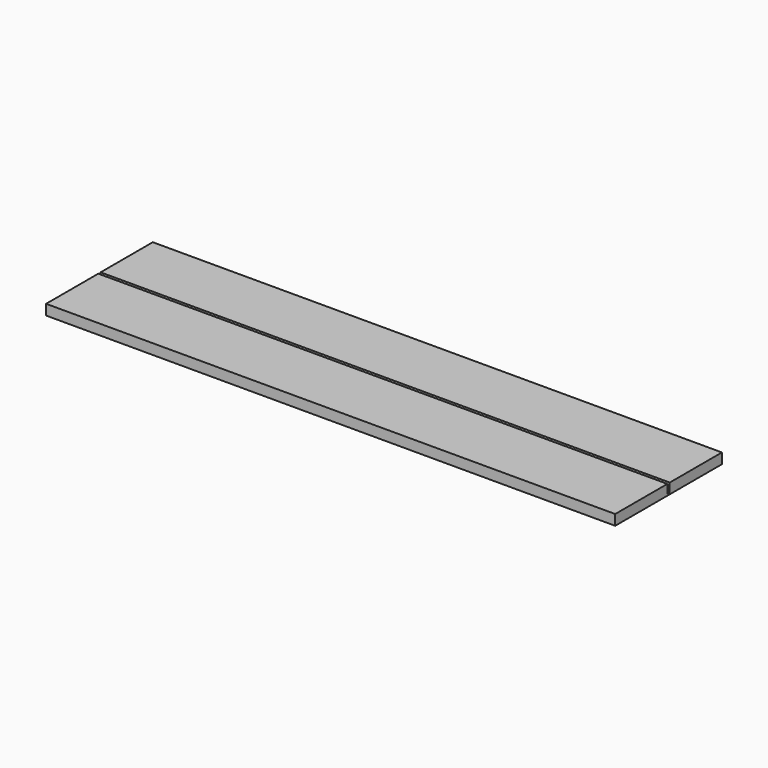
from build123d import *

# Parameters (mm, degrees)
F1_DEPTH = 1219.2


with BuildPart() as f1:
    # F0 (on Right) → F1 (new body)
    with BuildSketch(Plane.YZ):
        Polygon((-69.85, -11.1125), (69.85, -11.1125), (76.2, -11.1125), (215.9, -11.1125), (215.9, 11.1125), (76.2, 11.1125), (76.2, -8.5725), (69.85, -8.5725), (69.85, 11.1125), (-69.85, 11.1125), align=None)
        Polygon((-69.85, -11.1125), (69.85, -11.1125), (76.2, -11.1125), (215.9, -11.1125), (215.9, 11.1125), (76.2, 11.1125), (76.2, -8.5725), (69.85, -8.5725), (69.85, 11.1125), (-69.85, 11.1125), align=None)
    extrude(amount=F1_DEPTH)


solid = f1.part
